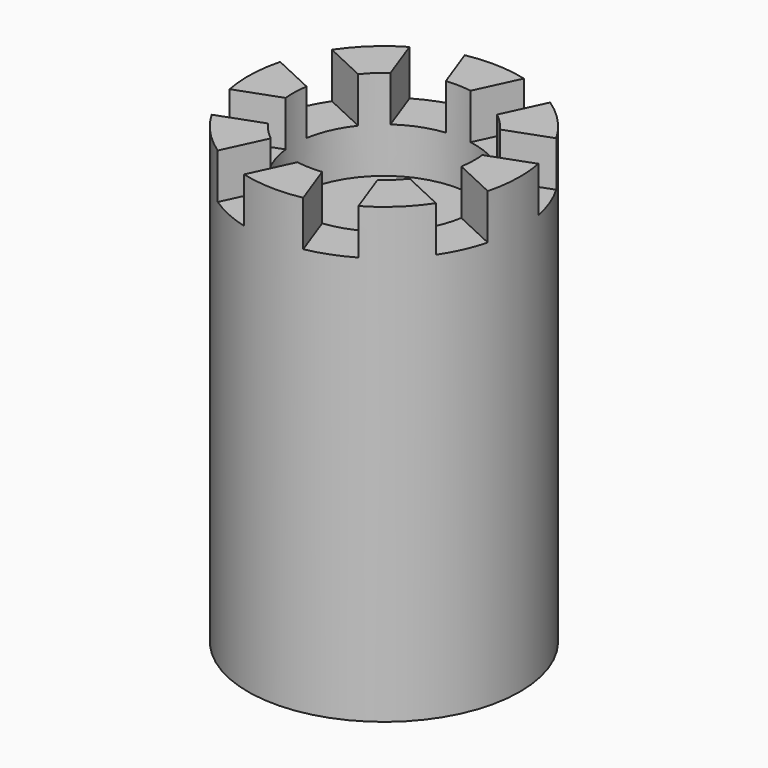
from build123d import *

# Parameters (mm, degrees)
BOX_W               = 20
BOX_H               = 10
BOX_DEPTH           = 10
BOX_PLACEMENT_ANGLE = 25
ARRAY_COUNT         = 8
CYLINDER001_R       = 20
CYLINDER001_DEPTH   = 20
CYLINDER_R          = 30
CYLINDER_DEPTH      = 100


with BuildPart() as array:
    # Box → Box (new body)
    with BuildSketch(Plane.XY):
        with Locations((10, 5)):
            Rectangle(BOX_W, BOX_H)
    extrude(amount=BOX_DEPTH)


with BuildPart() as array_1:
    # Box placement: moved
    add(array.part.moved(Location((-33.26, 9.63, 0))).rotate(Axis((-33.26, 9.63, 0), (0, 0, -1)), BOX_PLACEMENT_ANGLE))

    # Array: Array ×8 about axis
    array_axis = Axis((0, 0, 0), (0, 0, 1))


with BuildPart() as array_2:
    add(array_1.part)
    for i in range(1, ARRAY_COUNT):
        add(array_1.part.rotate(array_axis, i * 360 / ARRAY_COUNT))


with BuildPart() as array_3:
    # Array placement: moved
    add(array_2.part.moved(Location((0, 0, 90))))


with BuildPart() as obj1:
    # Cylinder001 → Cylinder001 (new body)
    with BuildSketch(Plane.XY.offset(80)):
        Circle(CYLINDER001_R)
    extrude(amount=CYLINDER001_DEPTH)


with BuildPart() as cut001:
    # Cylinder → Cylinder (new body)
    with BuildSketch(Plane.XY):
        Circle(CYLINDER_R)
    extrude(amount=CYLINDER_DEPTH)

    # Cut: cut obj1
    add(obj1.part, mode=Mode.SUBTRACT)

    # Cut001: cut Array
    add(array_3.part, mode=Mode.SUBTRACT)


solid = cut001.part
